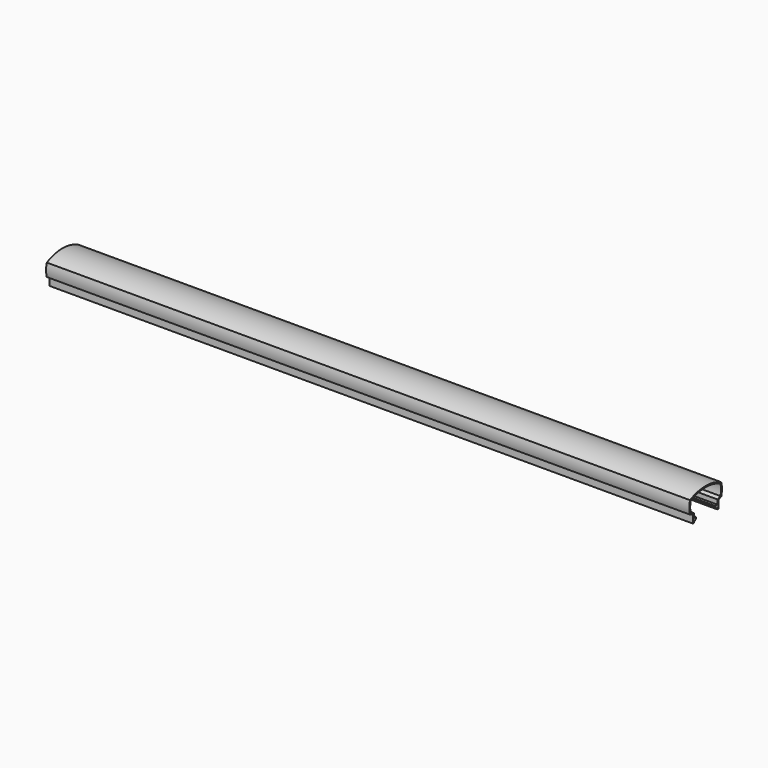
from build123d import *

# Parameters (mm, degrees)
F1_DEPTH = 1000


with BuildPart() as f1:
    # F0 (on Right) → F1 (new body)
    with BuildSketch(Plane.YZ):
        with BuildLine():
            Line((56.45, 0), (56.45, 12.5))
            Line((56.45, 12.5), (62.052685, 14.539211))
            ThreePointArc((62.052685, 14.539211), (63.499961, 24.447472), (62.082432, 34.360032))
            ThreePointArc((62.082432, 34.360032), (31.75, 41.5), (1.417568, 34.360032))
            ThreePointArc((1.417568, 34.360032), (3.9e-05, 24.447472), (1.447315, 14.539211))
            Line((1.447315, 14.539211), (7.05, 12.5))
            Line((7.05, 12.5), (7.05, 0))
            Line((7.05, 0), (8.85, 0))
            Line((8.85, 0), (8.85, 2))
            Line((8.85, 2), (10.91777, 2))
            ThreePointArc((10.91777, 2), (12.319719, 3.861416), (13.495637, 5.873267))
            ThreePointArc((13.495637, 5.873267), (13.476243, 6.361375), (13.05, 6.6))
            Line((13.05, 6.6), (8.85, 6.6))
            Line((8.85, 6.6), (8.85, 13.760374))
            Line((8.85, 13.760374), (2.929064, 15.915418))
            ThreePointArc((2.929064, 15.915418), (1.800001, 24.507341), (2.932863, 33.098764))
            ThreePointArc((2.932863, 33.098764), (31.75, 39.7), (60.567137, 33.098764))
            ThreePointArc((60.567137, 33.098764), (61.699999, 24.507341), (60.570936, 15.915418))
            Line((60.570936, 15.915418), (54.65, 13.760374))
            Line((54.65, 13.760374), (54.65, 6.6))
            Line((54.65, 6.6), (50.45, 6.6))
            ThreePointArc((50.45, 6.6), (50.023757, 6.361375), (50.004363, 5.873267))
            ThreePointArc((50.004363, 5.873267), (51.180281, 3.861416), (52.58223, 2))
            Line((52.58223, 2), (54.65, 2))
            Line((54.65, 2), (54.65, 0))
            Line((54.65, 0), (56.45, 0))
        make_face()
    extrude(amount=F1_DEPTH)


solid = f1.part
